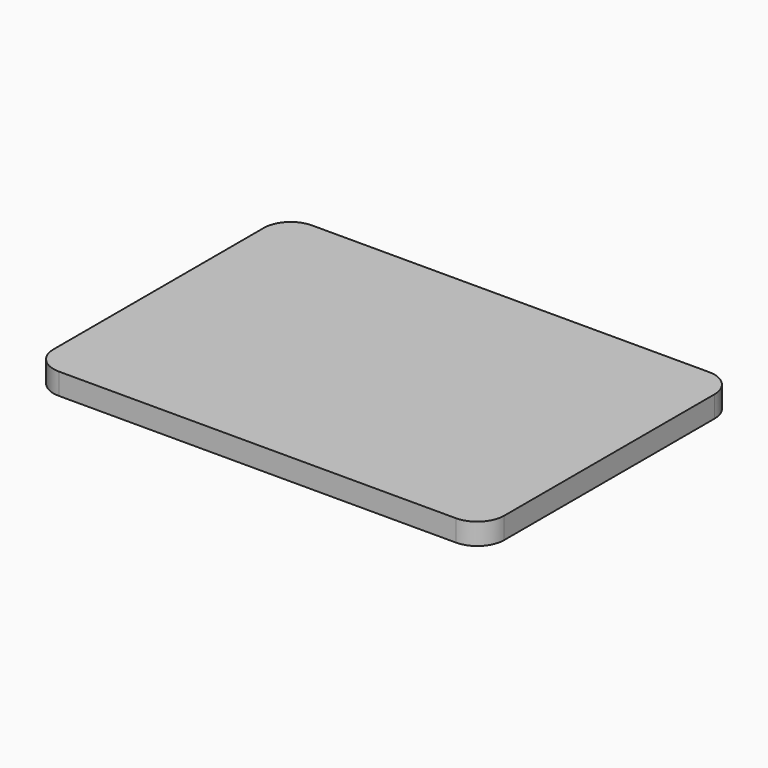
from build123d import *

# Parameters (mm, degrees)
SKETCH_W    = 168
SKETCH_H    = 118
PAD_DEPTH   = 8
FILLET_R    = 10
FILLET001_R = 10


with BuildPart() as part:
    # Sketch → Pad (new body)
    with BuildSketch(Plane.XY):
        Rectangle(SKETCH_W, SKETCH_H)
    extrude(amount=PAD_DEPTH)

    # Fillet
    fillet_edges = [part.edges().sort_by_distance(p)[0] for p in [
        (-84, -59, 4),
    ]]
    fillet(fillet_edges, radius=FILLET_R)

    # Fillet001
    fillet001_edges = [part.edges().sort_by_distance(p)[0] for p in [
        (-84, 59, 4),
        (84, 59, 4),
        (84, -59, 4),
    ]]
    fillet(fillet001_edges, radius=FILLET001_R)


solid = part.part
